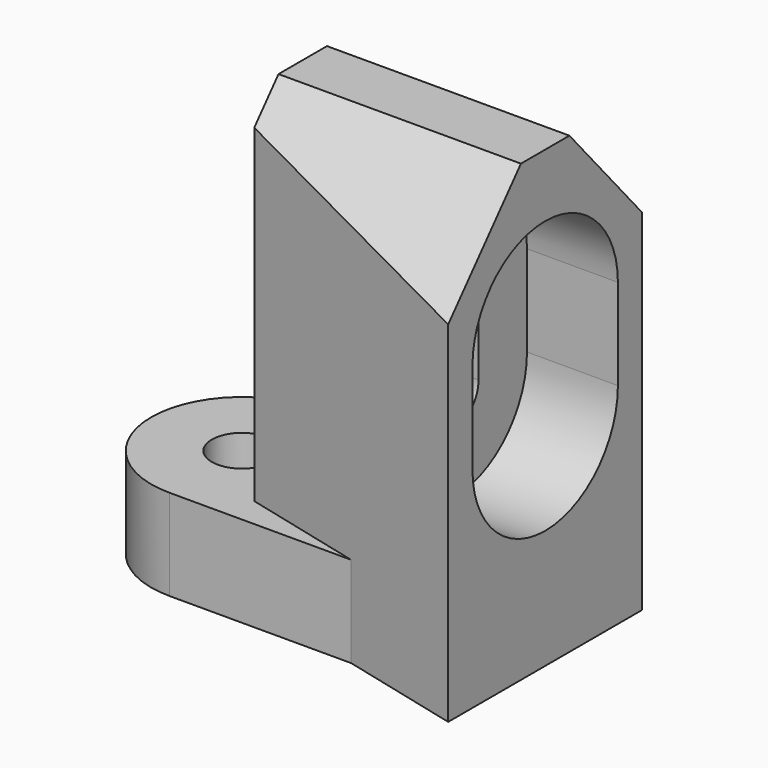
from build123d import *

# Parameters (mm, degrees)
F0_R     = 5
F1_DEPTH = 15
F3_DEPTH = 75
F5_DEPTH = 80
F7_DEPTH = 50
F9_DEPTH = 15


with BuildPart() as f1:
    # F0 (on Top) → F1 (new body)
    with BuildSketch(Plane.XY):
        with BuildLine():
            Line((0, 15), (-50, 15))
            ThreePointArc((-50, 15), (-65, 0), (-50, -15))
            Line((-50, -15), (0, -15))
            Line((0, -15), (0, 0))
            Line((0, 0), (0, 15))
        make_face()
        with Locations((-50, 0)):
            Circle(F0_R, mode=Mode.SUBTRACT)
    extrude(amount=F1_DEPTH)

    # F2 (on face) → F3 (join)
    with BuildSketch(Plane(origin=(0, 0, 0), x_dir=(1, 0, 0), z_dir=(0, 0, -1))):
        Polygon((0, -20), (0, -15), (-20, -15), align=None)
        Polygon((0, -15), (0, 0), (0, 15), (-20, 15), (-40, 10), (-40, 0), (-40, -10), (-20, -15), align=None)
        Polygon((-20, 15), (0, 15), (0, 20), align=None)
    extrude(amount=-F3_DEPTH)

    # F4 (on face) → F5 (cut)
    with BuildSketch(Plane.YZ):
        Polygon((34.8571650684, 75), (20, 75), (20, 57.7444738917), (25.7445386642, 51.1361380983), align=None)
        Polygon((20, 75), (5, 75), (20, 57.7444738917), align=None)
        Polygon((-20, 57.7444738917), (-5, 75), (-20, 75), align=None)
        Polygon((-25.7445386642, 51.1361380983), (-20, 57.7444738917), (-20, 75), (-34.8571650684, 75), align=None)
    extrude(amount=-F5_DEPTH, mode=Mode.SUBTRACT)

    # F6 (on face) → F7 (cut)
    with BuildSketch(Plane(origin=(-40, 0, 0), x_dir=(0, -1, 0), z_dir=(-1, 0, 0))):
        with BuildLine():
            Line((5, 42.1240789819), (5, 49.6240789819))
            ThreePointArc((5, 49.6240789819), (0, 54.6240789819), (-5, 49.6240789819))
            Line((-5, 49.6240789819), (-5, 42.1240789819))
            Line((-5, 42.1240789819), (-5, 34.6240789819))
            ThreePointArc((-5, 34.6240789819), (0, 29.6240789819), (5, 34.6240789819))
            Line((5, 34.6240789819), (5, 42.1240789819))
        make_face()
    extrude(amount=-F7_DEPTH, mode=Mode.SUBTRACT)

    # F8 (on face) → F9 (cut)
    with BuildSketch(Plane.YZ):
        with BuildLine():
            Line((15, 34.6240789819), (15, 49.6240789819))
            ThreePointArc((15, 49.6240789819), (0, 64.6240789819), (-15, 49.6240789819))
            Line((-15, 49.6240789819), (-15, 34.6240789819))
            ThreePointArc((-15, 34.6240789819), (0, 19.6240789819), (15, 34.6240789819))
        make_face()
        with BuildLine():
            ThreePointArc((5, 34.6240789819), (0, 29.6240789819), (-5, 34.6240789819))
            Line((-5, 34.6240789819), (-5, 49.6240789819))
            ThreePointArc((-5, 49.6240789819), (0, 54.6240789819), (5, 49.6240789819))
            Line((5, 49.6240789819), (5, 34.6240789819))
        make_face(mode=Mode.SUBTRACT)
    extrude(amount=-F9_DEPTH, mode=Mode.SUBTRACT)


solid = f1.part
